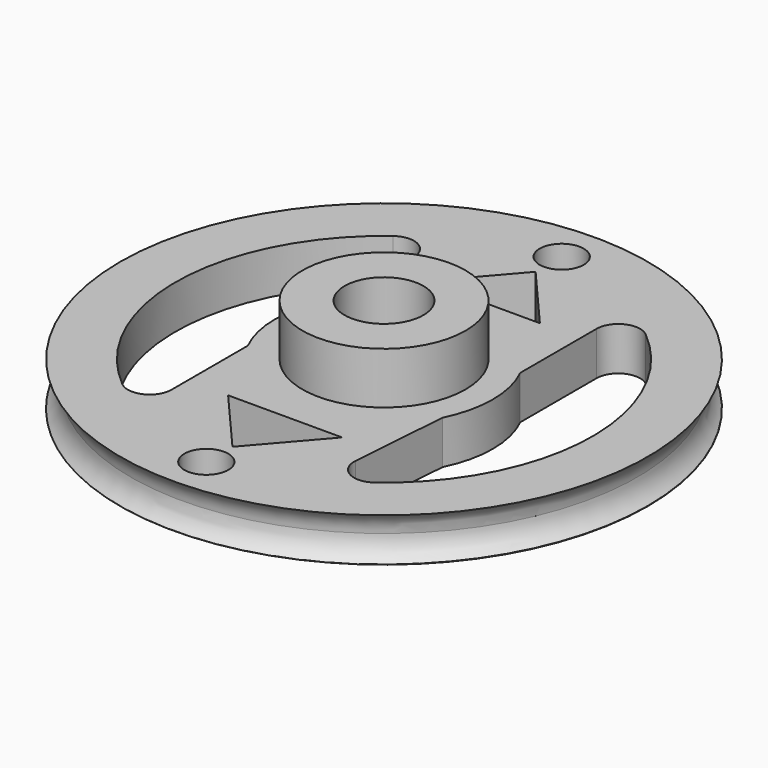
from build123d import *

# Parameters (mm, degrees)
F0_R     = 24.25
F0_R_2   = 3.625
F1_DEPTH = 4
F2_R     = 7.5
F2_R_2   = 3.625
F3_DEPTH = 4.75
F4_R     = 2.020962
F5_DEPTH = 4.001
F6_R     = 2.5


with BuildPart() as f1:
    # F0 (on Top) → F1 (new body)
    with BuildSketch(Plane.XY):
        Circle(F0_R)
        with BuildLine():
            Line((8.950036, 4.46059), (8.950036, 13.225189))
            ThreePointArc((8.950036, 13.225189), (10.098851, 15.035019), (12.22552, 14.765688))
            ThreePointArc((12.22552, 14.765688), (19.163787, -0.488041), (11.458089, -15.368835))
            ThreePointArc((11.458089, -15.368835), (9.299885, -15.51842), (8.268192, -13.616887))
            Line((8.268192, -13.616887), (8.950036, -4.46059))
            ThreePointArc((8.950036, -4.46059), (10, 0), (8.950036, 4.46059))
        make_face(mode=Mode.SUBTRACT)
        with BuildLine():
            Line((-8.268192, 13.616887), (-8.950036, 4.46059))
            ThreePointArc((-8.950036, 4.46059), (-10, 0), (-8.950036, -4.46059))
            Line((-8.950036, -4.46059), (-8.950036, -13.225189))
            ThreePointArc((-8.950036, -13.225189), (-10.098851, -15.035019), (-12.22552, -14.765688))
            ThreePointArc((-12.22552, -14.765688), (-19.163787, 0.488041), (-11.458089, 15.368835))
            ThreePointArc((-11.458089, 15.368835), (-9.299885, 15.51842), (-8.268192, 13.616887))
        make_face(mode=Mode.SUBTRACT)
        Circle(F0_R_2, mode=Mode.SUBTRACT)
    extrude(amount=F1_DEPTH)

    # F2 (on face) → F3 (join)
    with BuildSketch(Plane.XY.offset(4)):
        Circle(F2_R)
        Circle(F2_R_2, mode=Mode.SUBTRACT)
    extrude(amount=F3_DEPTH)

    # F4 (on face) → F5 (cut, through all)
    with BuildSketch(Plane.XY.offset(4)):
        Polygon((-5.234685, 11.362989), (0, 11.362989), (0, 17.41166), align=None)
        Polygon((0, 17.41166), (0, 11.362989), (5.234685, 11.362989), align=None)
        Polygon((0, -11.362989), (-5.234685, -11.362989), (0, -17.41166), (5.234685, -11.362989), align=None)
        with Locations((0, 20.410169)):
            Circle(F4_R)
        with Locations((0, -20.410169)):
            Circle(F4_R)
    extrude(amount=-F5_DEPTH, mode=Mode.SUBTRACT)

    # F6 (on Front) → F7 (revolve, cut)
    with BuildSketch(Plane.XZ):
        with Locations((-25.767528, 2.014234)):
            Circle(F6_R)
    revolve(axis=Axis((0, 0, 7.021954), (0, 0, -1)), mode=Mode.SUBTRACT)


solid = f1.part
